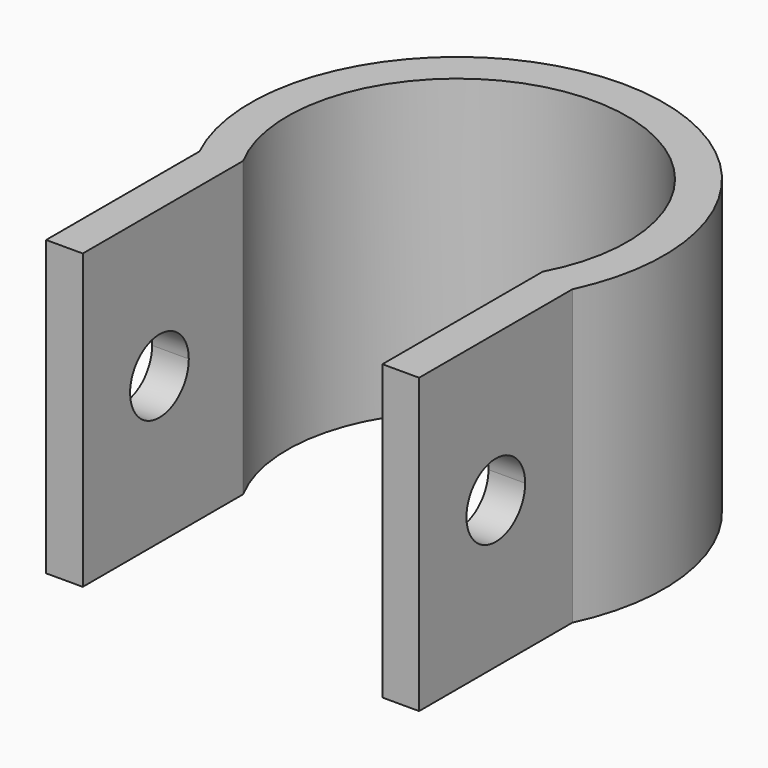
from build123d import *

# Parameters (mm, degrees)
F1_DEPTH = 25.4
F3_DEPTH = 63.5


with BuildPart() as f1:
    # F0 (on Top) → F1 (new body)
    with BuildSketch(Plane.XY):
        with BuildLine():
            ThreePointArc((-12.9667, -6.9604393545), (0, 14.71676), (12.9667, -6.9604393545))
            Line((12.9667, -6.9604393545), (12.9667, -24.3086393545))
            Line((12.9667, -24.3086393545), (16.1417, -24.3086393545))
            Line((16.1417, -24.3086393545), (16.1417, -7.7175512313))
            ThreePointArc((16.1417, -7.7175512313), (0, 17.89176), (-16.1417, -7.7175512313))
            Line((-16.1417, -7.7175512313), (-16.1417, -24.3086393545))
            Line((-16.1417, -24.3086393545), (-12.9667, -24.3086393545))
            Line((-12.9667, -24.3086393545), (-12.9667, -6.9604393545))
        make_face()
    extrude(amount=F1_DEPTH)

    # F2 (on face) → F3 (cut)
    with BuildSketch(Plane.YZ.offset(16.1417)):
        with BuildLine():
            Line((-17.7493945688, 10.0418258476), (-14.276796017, 15.3581741524))
            ThreePointArc((-14.276796017, 15.3581741524), (-18.6712694453, 14.4362992759), (-17.7493945688, 10.0418258476))
        make_face()
        with BuildLine():
            ThreePointArc((-17.7493945688, 10.0418258476), (-14.501825165, 9.9077450688), (-12.8380952929, 12.7))
            ThreePointArc((-12.8380952929, 12.7), (-13.2208403617, 14.2112701279), (-14.276796017, 15.3581741524))
            Line((-14.276796017, 15.3581741524), (-17.7493945688, 10.0418258476))
        make_face()
    extrude(amount=-F3_DEPTH, mode=Mode.SUBTRACT)


solid = f1.part
